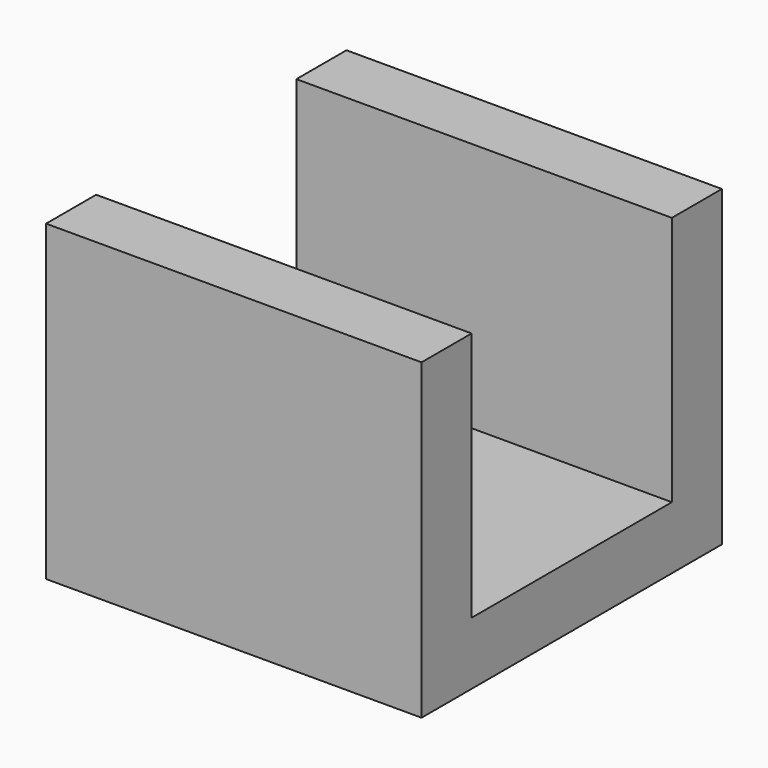
from build123d import *

# Parameters (mm, degrees)
F0_W     = 30
F0_H     = 20
F1_DEPTH = 5
F0_H_2   = 5
F2_DEPTH = 25


with BuildPart() as f1:
    # F0 (on Top) → F1 (new body)
    with BuildSketch(Plane.XY):
        with Locations((-6.006939, 10)):
            Rectangle(F0_W, F0_H)
    extrude(amount=F1_DEPTH)

    # F0 (on Top) → F2 (join)
    with BuildSketch(Plane.XY):
        with Locations((-6.006939, 22.5)):
            Rectangle(F0_W, F0_H_2)
        with Locations((-6.006939, -2.5)):
            Rectangle(F0_W, F0_H_2)
    extrude(amount=F2_DEPTH)


solid = f1.part
